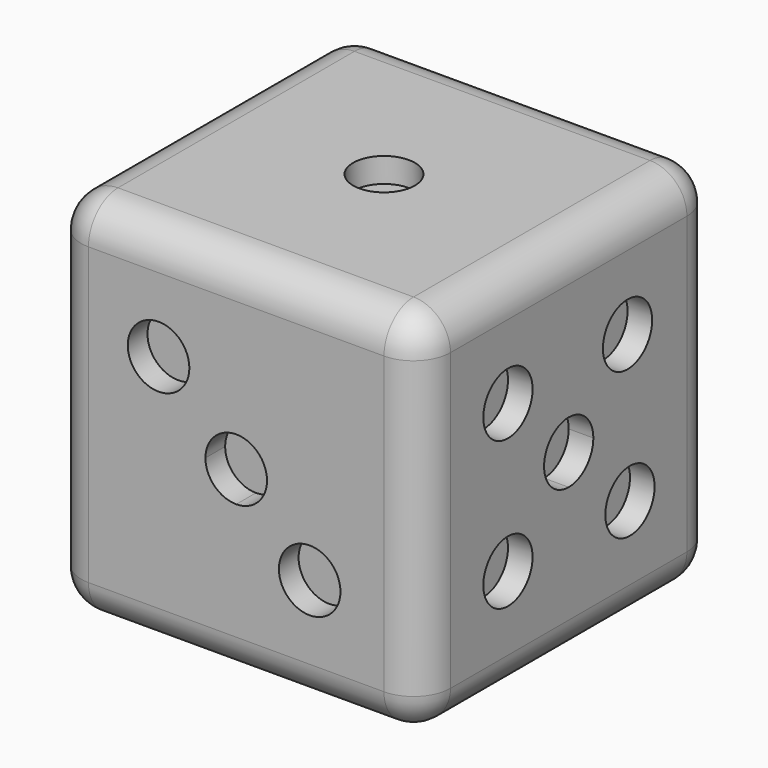
from build123d import *

# Parameters (mm, degrees)
F0_W      = 76.2
F0_H      = 76.2
F1_DEPTH  = 76.2
F2_R      = 7.62
F3_R      = 6.3632045514
F4_DEPTH  = 5.08
F6_DEPTH  = 5.08
F7_DEPTH  = 5.08
F9_R      = 6.35
F10_DEPTH = 5.08
F11_R     = 6.35
F12_DEPTH = 5.08
F13_R     = 6.35
F14_DEPTH = 5.08
F15_R     = 6.35
F16_DEPTH = 5.08


with BuildPart() as f1:
    # F0 (on Top) → F1 (new body)
    with BuildSketch(Plane.XY):
        with Locations((-8.1155080592, -6.2860166654)):
            Rectangle(F0_W, F0_H)
    extrude(amount=F1_DEPTH)

    # F2
    f2_edges = [f1.edges().sort_by_distance(p)[0] for p in [
        (-46.215508, 31.813983, 38.1),
        (29.984492, 31.813983, 38.1),
        (29.984492, -44.386017, 38.1),
        (-46.215508, -44.386017, 38.1),
        (-8.115508, 31.813983, 0),
        (-8.115508, 31.813983, 76.2),
        (-8.115508, -44.386017, 0),
        (-8.115508, -44.386017, 76.2),
        (29.984492, -6.286017, 0),
        (29.984492, -6.286017, 76.2),
        (-46.215508, -6.286017, 0),
        (-46.215508, -6.286017, 76.2),
    ]]
    fillet(f2_edges, radius=F2_R)

    # F3 (on face) → F4 (cut)
    with BuildSketch(Plane.XY.offset(76.2)):
        with Locations((-8.1155080592, -6.2860166654)):
            Circle(F3_R)
    extrude(amount=-F4_DEPTH, mode=Mode.SUBTRACT)

    # F5 (on face) → F6 (cut)
    with BuildSketch(Plane(origin=(0, 0, 0), x_dir=(1, 0, 0), z_dir=(0, 0, -1))):
        with BuildLine():
            ThreePointArc((-17.7270988166, 6.2860166654), (-19.5869707561, 10.7761447259), (-24.0770988166, 12.6360166654))
            Line((-24.0770988166, 12.6360166654), (-24.0770988166, -0.0639833346))
            ThreePointArc((-24.0770988166, -0.0639833346), (-19.5869707561, 1.7958886049), (-17.7270988166, 6.2860166654))
        make_face()
        with BuildLine():
            Line((-24.0770988166, -0.0639833346), (-24.0770988166, 12.6360166654))
            ThreePointArc((-24.0770988166, 12.6360166654), (-30.4270988166, 6.2860166654), (-24.0770988166, -0.0639833346))
        make_face()
        with BuildLine():
            ThreePointArc((14.8022180259, 25.3360166654), (12.9423460865, 29.8261447259), (8.4522180259, 31.6860166654))
            Line((8.4522180259, 31.6860166654), (8.4522180259, 18.9860166654))
            ThreePointArc((8.4522180259, 18.9860166654), (12.9423460865, 20.8458886049), (14.8022180259, 25.3360166654))
        make_face()
        with BuildLine():
            Line((8.4522180259, 18.9860166654), (8.4522180259, 31.6860166654))
            ThreePointArc((8.4522180259, 31.6860166654), (2.1022180259, 25.3360166654), (8.4522180259, 18.9860166654))
        make_face()
        with BuildLine():
            Line((8.4522180259, -0.0639833346), (8.4522180259, 12.6360166654))
            ThreePointArc((8.4522180259, 12.6360166654), (2.1022180259, 6.2860166654), (8.4522180259, -0.0639833346))
        make_face()
        with BuildLine():
            ThreePointArc((14.8022180259, 6.2860166654), (12.9423460865, 10.7761447259), (8.4522180259, 12.6360166654))
            Line((8.4522180259, 12.6360166654), (8.4522180259, -0.0639833346))
            ThreePointArc((8.4522180259, -0.0639833346), (12.9423460865, 1.7958886049), (14.8022180259, 6.2860166654))
        make_face()
        with BuildLine():
            Line((-24.0770988166, 18.9860166654), (-24.0770988166, 31.6860166654))
            ThreePointArc((-24.0770988166, 31.6860166654), (-30.4270988166, 25.3360166654), (-24.0770988166, 18.9860166654))
        make_face()
        with BuildLine():
            ThreePointArc((8.4522180259, -6.4139833346), (2.1022180259, -12.7639833346), (8.4522180259, -19.1139833346))
            Line((8.4522180259, -19.1139833346), (8.4522180259, -6.4139833346))
        make_face()
        with BuildLine():
            Line((8.4522180259, -6.4139833346), (8.4522180259, -19.1139833346))
            ThreePointArc((8.4522180259, -19.1139833346), (12.9423460865, -17.2541113951), (14.8022180259, -12.7639833346))
            ThreePointArc((14.8022180259, -12.7639833346), (12.9423460865, -8.2738552741), (8.4522180259, -6.4139833346))
        make_face()
        with BuildLine():
            Line((-24.0770988166, -6.4139833346), (-24.0770988166, -19.1139833346))
            ThreePointArc((-24.0770988166, -19.1139833346), (-19.5869707561, -17.2541113951), (-17.7270988166, -12.7639833346))
            ThreePointArc((-17.7270988166, -12.7639833346), (-19.5869707561, -8.2738552741), (-24.0770988166, -6.4139833346))
        make_face()
        with BuildLine():
            ThreePointArc((-24.0770988166, -6.4139833346), (-30.4270988166, -12.7639833346), (-24.0770988166, -19.1139833346))
            Line((-24.0770988166, -19.1139833346), (-24.0770988166, -6.4139833346))
        make_face()
        with BuildLine():
            ThreePointArc((-17.7270988166, 25.3360166654), (-19.5869707561, 29.8261447259), (-24.0770988166, 31.6860166654))
            Line((-24.0770988166, 31.6860166654), (-24.0770988166, 18.9860166654))
            ThreePointArc((-24.0770988166, 18.9860166654), (-19.5869707561, 20.8458886049), (-17.7270988166, 25.3360166654))
        make_face()
    extrude(amount=-F6_DEPTH, mode=Mode.SUBTRACT)

    # F7 (add): a face of the model
    f7_faces = [f1.faces().sort_by_distance(p)[0] for p in [
        (-46.2155080592, -6.2860166654, 38.1),
    ]]
    extrude(f7_faces, amount=-F7_DEPTH)

    # F9 (on face) → F10 (cut)
    with BuildSketch(Plane(origin=(-46.2155080592, 0, 0), x_dir=(0, -1, 0), z_dir=(-1, 0, 0))):
        with Locations((-8.8818371296, 53.34)):
            Circle(F9_R)
        with Locations((21.0777521133, 22.86)):
            Circle(F9_R)
    extrude(amount=-F10_DEPTH, mode=Mode.SUBTRACT)

    # F11 (on face) → F12 (cut)
    with BuildSketch(Plane.YZ.offset(29.9844919408)):
        with Locations((-21.9498630613, 53.34)):
            Circle(F11_R)
        with BuildLine():
            ThreePointArc((0.0639833346, 38.1), (-1.7958886049, 42.5901280605), (-6.2860166654, 44.45))
            Line((-6.2860166654, 44.45), (-6.2860166654, 38.1))
            Line((-6.2860166654, 38.1), (0.0639833346, 38.1))
        make_face()
        with BuildLine():
            ThreePointArc((-6.2860166654, 31.75), (-1.7958886049, 33.6098719395), (0.0639833346, 38.1))
            Line((0.0639833346, 38.1), (-6.2860166654, 38.1))
            Line((-6.2860166654, 38.1), (-6.2860166654, 31.75))
        make_face()
        with BuildLine():
            Line((-6.2860166654, 31.75), (-6.2860166654, 38.1))
            Line((-6.2860166654, 38.1), (-12.6360166654, 38.1))
            ThreePointArc((-12.6360166654, 38.1), (-10.7761447259, 33.6098719395), (-6.2860166654, 31.75))
        make_face()
        with BuildLine():
            Line((-6.2860166654, 38.1), (-6.2860166654, 44.45))
            ThreePointArc((-6.2860166654, 44.45), (-10.7761447259, 42.5901280605), (-12.6360166654, 38.1))
            Line((-12.6360166654, 38.1), (-6.2860166654, 38.1))
        make_face()
        with Locations((8.8817877695, 53.34)):
            Circle(F11_R)
        with Locations((9.5079327002, 22.86)):
            Circle(F11_R)
        with Locations((-21.9527687877, 22.86)):
            Circle(F11_R)
    extrude(amount=-F12_DEPTH, mode=Mode.SUBTRACT)

    # F13 (on face) → F14 (cut)
    with BuildSketch(Plane.XZ.offset(44.3860166654)):
        with Locations((-24.1356771439, 53.34)):
            Circle(F13_R)
        with BuildLine():
            ThreePointArc((-1.7655080592, 38.1), (-3.6253799987, 42.5901280605), (-8.1155080592, 44.45))
            Line((-8.1155080592, 44.45), (-8.1155080592, 38.1))
            Line((-8.1155080592, 38.1), (-1.7655080592, 38.1))
        make_face()
        with BuildLine():
            ThreePointArc((-8.1155080592, 31.75), (-3.6253799987, 33.6098719395), (-1.7655080592, 38.1))
            Line((-1.7655080592, 38.1), (-8.1155080592, 38.1))
            Line((-8.1155080592, 38.1), (-8.1155080592, 31.75))
        make_face()
        with BuildLine():
            Line((-8.1155080592, 31.75), (-8.1155080592, 38.1))
            Line((-8.1155080592, 38.1), (-14.4655080592, 38.1))
            ThreePointArc((-14.4655080592, 38.1), (-12.6056361198, 33.6098719395), (-8.1155080592, 31.75))
        make_face()
        with BuildLine():
            Line((-8.1155080592, 38.1), (-8.1155080592, 44.45))
            ThreePointArc((-8.1155080592, 44.45), (-12.6056361198, 42.5901280605), (-14.4655080592, 38.1))
            Line((-14.4655080592, 38.1), (-8.1155080592, 38.1))
        make_face()
        with Locations((7.0330761373, 22.86)):
            Circle(F13_R)
    extrude(amount=-F14_DEPTH, mode=Mode.SUBTRACT)

    # F15 (on face) → F16 (cut)
    with BuildSketch(Plane(origin=(0, 31.8139833346, 0), x_dir=(-1, 0, 0), z_dir=(0, 1, 0))):
        with Locations((24.0265242755, 22.86)):
            Circle(F15_R)
        with Locations((24.1574160755, 53.34)):
            Circle(F15_R)
        with Locations((-6.5224412829, 53.34)):
            Circle(F15_R)
        with Locations((-7.0802713744, 22.86)):
            Circle(F15_R)
    extrude(amount=-F16_DEPTH, mode=Mode.SUBTRACT)


solid = f1.part
